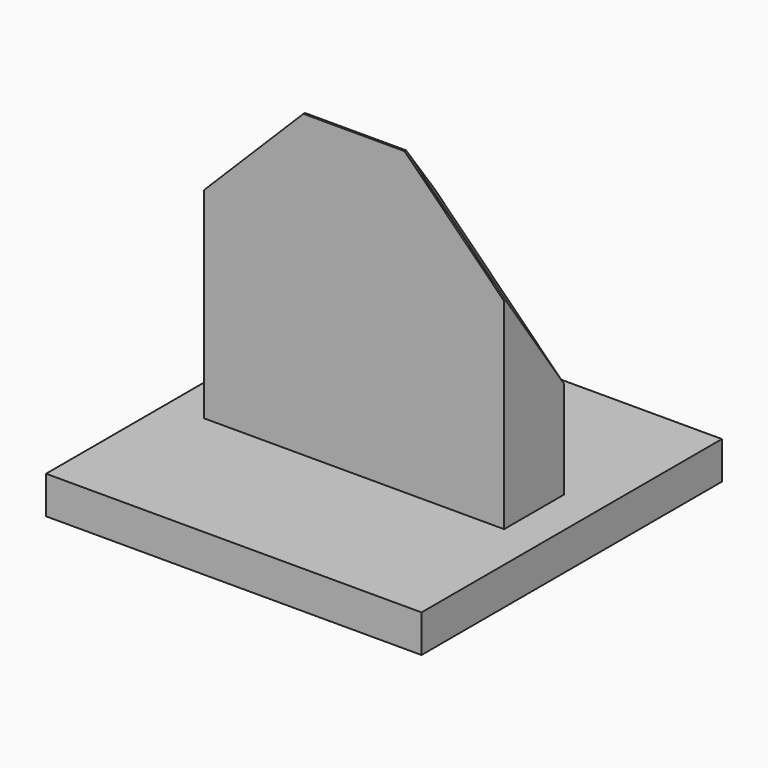
from build123d import *

# Parameters (mm, degrees)
F3_W      = 508
F3_H      = 508
F4_DEPTH  = 50.8
F5_W      = 406.4
F5_H      = 101.6
F6_DEPTH  = 406.4
F8_DEPTH  = 304.801
F9_SIZE   = 99.06
F10_SIZE  = 99.06
F15_R     = 0.127
F16_DEPTH = 304.801


with BuildPart() as f4:
    # F3 (on Top) → F4 (new body)
    with BuildSketch(Plane.XY):
        Rectangle(F3_W, F3_H)
    extrude(amount=F4_DEPTH)

    # F5 (on face) → F6 (join)
    with BuildSketch(Plane.XY.offset(50.8)):
        Rectangle(F5_W, F5_H)
    extrude(amount=F6_DEPTH)

    # F7 (on face) → F8 (cut, through all)
    with BuildSketch(Plane.XZ.offset(50.8)):
        Polygon((203.2, 322.3866591478), (203.2, 457.2), (68.3866591478, 457.2), align=None)
        Polygon((-68.3866591478, 457.2), (-203.2, 457.2), (-203.2, 322.3866591478), align=None)
    extrude(amount=-F8_DEPTH, mode=Mode.SUBTRACT)

    # F9
    f9_edges = [f4.edges().sort_by_distance(p)[0] for p in [
        (0, 50.8, 457.2),
    ]]
    chamfer(f9_edges, length=F9_SIZE)

    # F10
    f10_edges = [f4.edges().sort_by_distance(p)[0] for p in [
        (185.32333, 50.8, 340.26333),
        (-185.32333, 50.8, 340.26333),
    ]]
    chamfer(f10_edges, length=F10_SIZE)


with BuildPart() as f4_1:
    # F11: moved
    add(f4.part)


with BuildPart() as f4_2:
    # F14: moved
    add(f4_1.part)

    # F15 (on face) → F16 (cut, through all)
    with BuildSketch(Plane.XZ.offset(50.8)):
        with Locations((0, 292.1)):
            Circle(F15_R)
    extrude(amount=-F16_DEPTH, mode=Mode.SUBTRACT)


solid = f4_2.part
